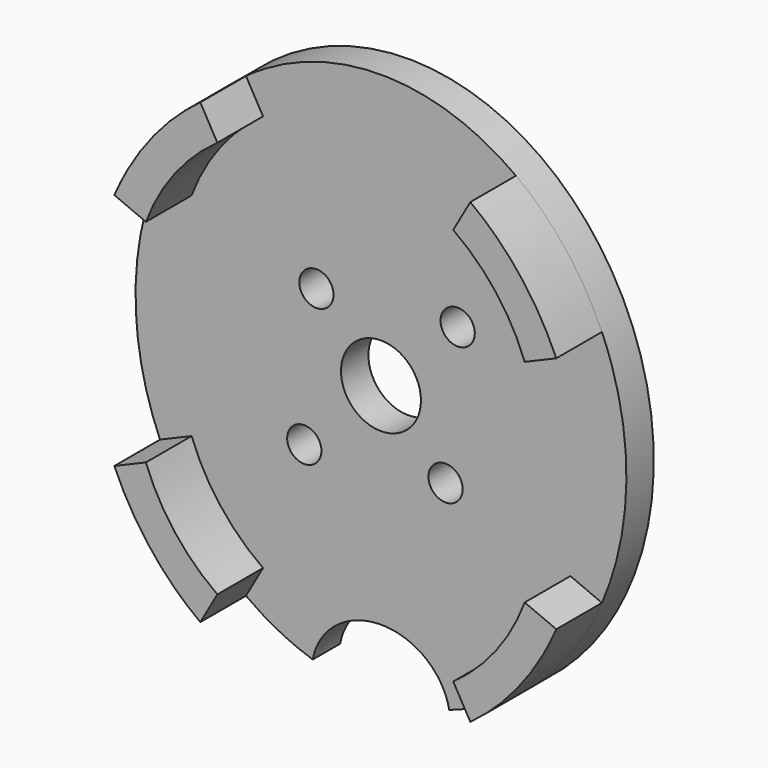
from build123d import *

# Parameters (mm, degrees)
F0_R     = 1.5
F0_R_2   = 3.5
F1_DEPTH = 3
F3_DEPTH = 5


with BuildPart() as f1:
    # F0 (on Front) → F1 (new body)
    with BuildSketch(Plane.XZ):
        with BuildLine():
            add(Edge.make_bspline(
                [(5.974625644, -23.0547126744), (5.1092471146, -18.4189665252), (0, -18.4189665252), (-5.1092471146, -18.4189665252), (-5.974625644, -23.0547126744)],
                knots=[3.3117880857, 3.3117880857, 3.3117880857, 4.7123889804, 4.7123889804, 6.1129898751, 6.1129898751, 6.1129898751], degree=2, weights=[1, 0.7646485993, 1, 0.7646485993, 1]))
            add(Edge.make_bspline(
                [(5.974625644, -23.0547126744), (35.0600153752, -13.6624239269), (17.5300076876, 13.8952681794), (0, 41.4529602857), (-17.5300076876, 13.8952681794), (-35.0600153752, -13.6624239269), (-5.974625644, -23.0547126744)],
                knots=[3.4231890954, 3.4231890954, 3.4231890954, 5.3298532366, 5.3298532366, 7.2365173778, 7.2365173778, 9.143181519, 9.143181519, 9.143181519], degree=2, weights=[1, 0.5789695075, 1, 0.5789695075, 1, 0.5789695075, 1]))
        make_face()
        with Locations((-6.7175144187, -6.7175144239)):
            Circle(F0_R, mode=Mode.SUBTRACT)
        with Locations((5.6568542502, -5.6568542488)):
            Circle(F0_R, mode=Mode.SUBTRACT)
        Circle(F0_R_2, mode=Mode.SUBTRACT)
        with Locations((-5.6568542517, 5.6568542473)):
            Circle(F0_R, mode=Mode.SUBTRACT)
        with Locations((6.7175144187, 6.7175144239)):
            Circle(F0_R, mode=Mode.SUBTRACT)
    extrude(amount=F1_DEPTH)

    # F2 (on face) → F3 (join)
    with BuildSketch(Plane.XZ.offset(3)):
        with BuildLine():
            Line((16.5940169989, 9.2761721889), (19.3566756245, 10.44595731))
            add(Edge.make_bspline(
                [(19.3566756245, 10.44595731), (16.7766172987, 16.4033689981), (11.8261484692, 20.0431073747)],
                knots=[5.1627029451, 5.1627029451, 5.1627029451, 5.7007571079, 5.7007571079, 5.7007571079], degree=2, weights=[1, 0.9640299482, 1]))
            Line((11.8261484692, 20.0431073747), (10.3316996668, 17.4140993408))
            ThreePointArc((10.3316996668, 17.4140993408), (14.073181445, 13.8147930783), (16.5940169989, 9.2761721889))
        make_face()
        with BuildLine():
            ThreePointArc((16.5940169989, -9.2761721889), (14.073181445, -13.8147930783), (10.3316996668, -17.4140993408))
            Line((10.3316996668, -17.4140993408), (11.8261484692, -20.0431073747))
            add(Edge.make_bspline(
                [(11.8261484692, -20.0431073747), (16.7766172987, -16.4033689981), (19.3566756245, -10.44595731)],
                knots=[3.7240208529, 3.7240208529, 3.7240208529, 4.2620750157, 4.2620750157, 4.2620750157], degree=2, weights=[1, 0.9640299482, 1]))
            Line((19.3566756245, -10.44595731), (16.5940169989, -9.2761721889))
        make_face()
        with BuildLine():
            ThreePointArc((-16.5940169989, 9.2761721889), (-14.073181445, 13.8147930783), (-10.3316996668, 17.4140993408))
            Line((-10.3316996668, 17.4140993408), (-11.8261484692, 20.0431073747))
            add(Edge.make_bspline(
                [(-11.8261484692, 20.0431073747), (-16.7766172987, 16.4033689981), (-19.3566756245, 10.44595731)],
                knots=[3.7240208529, 3.7240208529, 3.7240208529, 4.2620750157, 4.2620750157, 4.2620750157], degree=2, weights=[1, 0.9640299482, 1]))
            Line((-19.3566756245, 10.44595731), (-16.5940169989, 9.2761721889))
        make_face()
        with BuildLine():
            ThreePointArc((-10.3316996668, -17.4140993408), (-14.073181445, -13.8147930783), (-16.5940169989, -9.2761721889))
            Line((-16.5940169989, -9.2761721889), (-19.3566756245, -10.44595731))
            add(Edge.make_bspline(
                [(-19.3566756245, -10.44595731), (-16.7766172987, -16.4033689981), (-11.8261484692, -20.0431073747)],
                knots=[5.1627029451, 5.1627029451, 5.1627029451, 5.7007571079, 5.7007571079, 5.7007571079], degree=2, weights=[1, 0.9640299482, 1]))
            Line((-11.8261484692, -20.0431073747), (-10.3316996668, -17.4140993408))
        make_face()
    extrude(amount=F3_DEPTH)


solid = f1.part
